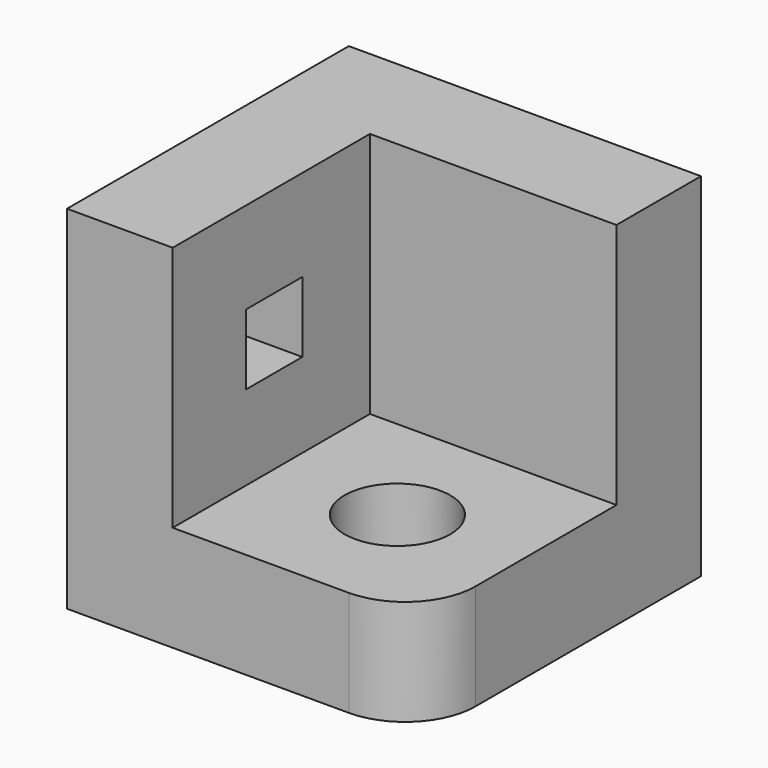
from build123d import *

# Parameters (mm, degrees)
F0_W      = 1270
F0_H      = 1270
F1_DEPTH  = 1270
F2_W      = 889
F2_H      = 889
F3_DEPTH  = 889
F4_W      = 254
F4_H      = 254
F5_DEPTH  = 381
F5_FACE_W = 254
F5_FACE_H = 254
F6_DEPTH  = 762
F8_DEPTH  = 381
F9_R      = 254


with BuildPart() as f1:
    # F0 (on Front) → F1 (new body)
    with BuildSketch(Plane.XZ):
        Rectangle(F0_W, F0_H)
    extrude(amount=F1_DEPTH)

    # F2 (on face) → F3 (cut)
    with BuildSketch(Plane.XZ.offset(1270)):
        with Locations((190.5, 190.5)):
            Rectangle(F2_W, F2_H)
    extrude(amount=-F3_DEPTH, mode=Mode.SUBTRACT)

    # F4 (on face) → F5 (join)
    with BuildSketch(Plane.YZ.offset(-254)):
        with Locations((-812.8, 177.8)):
            Rectangle(F4_W, F4_H)
    extrude(amount=F5_DEPTH)

    # F5_face (on face) → F6 (cut)
    with BuildSketch(Plane(origin=(127, -812.8, 177.8), x_dir=(0, 1, 0), z_dir=(1, 0, 0))):
        Rectangle(F5_FACE_W, F5_FACE_H)
    extrude(amount=-F6_DEPTH, mode=Mode.SUBTRACT)

    # F7 (on face) → F8 (cut)
    with BuildSketch(Plane.XY.offset(-254)):
        with BuildLine():
            ThreePointArc((381, -812.8), (55.796158, -678.096158), (190.5, -1003.3))
            ThreePointArc((190.5, -1003.3), (325.203842, -947.503842), (381, -812.8))
        make_face()
    extrude(amount=-F8_DEPTH, mode=Mode.SUBTRACT)

    # F9
    f9_edges = [f1.edges().sort_by_distance(p)[0] for p in [
        (635, -1270, -444.5),
    ]]
    fillet(f9_edges, radius=F9_R)


solid = f1.part
